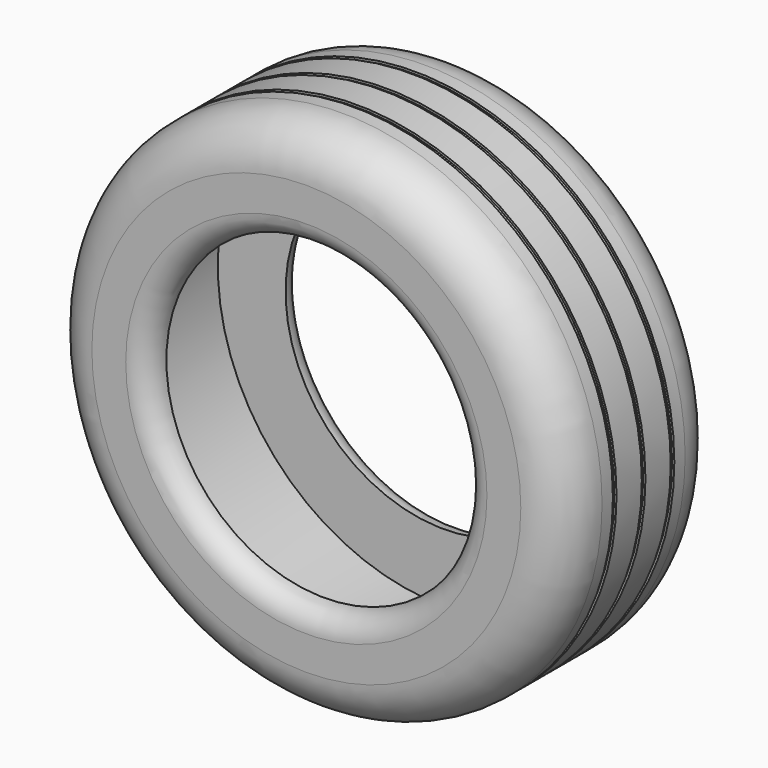
from build123d import *

# Parameters (mm, degrees)
F0_R     = 575
F1_DEPTH = 430
F2_R     = 350
F3_DEPTH = 500
F4_R     = 100
F5_R     = 50
F6_W     = 148.077123
F6_H     = 10
F6_W_2   = 157.069139
F6_W_3   = 114.678197


with BuildPart() as f1:
    # F0 (on Front) → F1 (new body)
    with BuildSketch(Plane.XZ):
        Circle(F0_R)
    extrude(amount=F1_DEPTH)

    # F2 (on face) → F3 (cut)
    with BuildSketch(Plane.XZ.offset(430)):
        Circle(F2_R)
    extrude(amount=-F3_DEPTH, mode=Mode.SUBTRACT)

    # F4
    f4_edges = [f1.edges().sort_by_distance(p)[0] for p in [
        (-575, -430, 0),
        (-575, 0, 0),
    ]]
    fillet(f4_edges, radius=F4_R)

    # F5
    f5_edges = [f1.edges().sort_by_distance(p)[0] for p in [
        (-350, -430, 0),
        (-350, 0, 0),
    ]]
    fillet(f5_edges, radius=F5_R)

    # F6 (on Top) → F7 (revolve, cut)
    with BuildSketch(Plane.XY):
        Polygon((350, 0), (0, 0), (0, -430), (350, -430), (350, -380), (500, -380), (500, -50), (350, -50), align=None)
        with Locations((644.038562, -295)):
            Rectangle(F6_W, F6_H)
        with Locations((648.534569, -215)):
            Rectangle(F6_W_2, F6_H)
        with Locations((627.339098, -135)):
            Rectangle(F6_W_3, F6_H)
    revolve(axis=Axis((0, -215, 0), (0, 1, 0)), mode=Mode.SUBTRACT)


solid = f1.part
